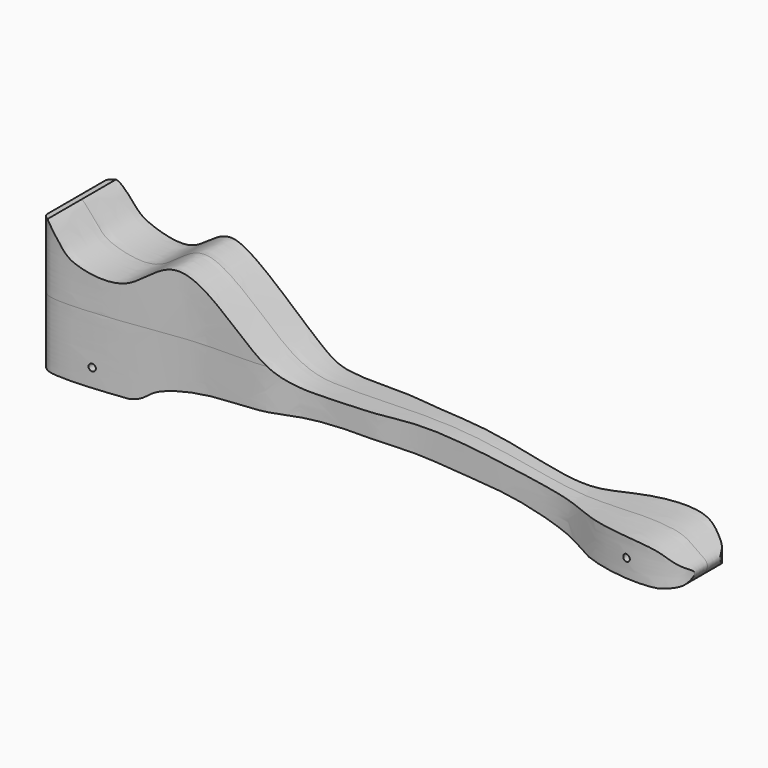
from build123d import *

# Parameters (mm, degrees)
F4_DEPTH = 22.225
F5_DEPTH = 30.48
F6_START = -92.075
F2_R     = 9.525
F6_DEPTH = 60.325
F3_R     = 1.5875
F7_DEPTH = 25.4


with BuildPart() as f4:
    # F0 (on Front) → F4 (new body, symmetric)
    with BuildSketch(Plane.XZ):
        with BuildLine():
            add(Edge.make_bspline(
                [(-146.05, -24.0236744285), (-146.1781874413, -17.8280470518), (-145.890749205, 1.0263688296), (-146.3614866441, 16.4963650099), (-145.1496370926, 37.2948765155), (-133.5770502462, 20.1843369035), (-127.1625348914, 16.37054813), (-103.9270230451, 11.1175489919), (-84.7068747987, 38.5635824615), (-46.2790919471, -5.0938781979), (-22.2494900592, -6.695037827), (8.1118552166, -5.5287336388), (32.9493743, -5.6124807868), (60.3557936175, -9.7348250899), (87.88574098, -14.9863606595), (109.5876212533, -13.305083868), (133.0428721986, -13.5923597316), (139.2292573782, -19.1965913175), (145.7936040284, -22.6796150517), (143.9002114327, -27.3697338863), (140.7838062461, -30.0613087741), (113.414032294, -33.3088613442), (85.2091646676, -28.1390545339), (61.2802262681, -21.093915132), (40.6325869974, -19.2318570074), (9.8282388616, -16.7085212666), (-21.5336982095, -15.9699011772), (-50.5037382312, -19.0712694467), (-71.0920257337, -19.1731174639), (-95.8228128828, -23.6471784521), (-100.7070241224, -32.4815341157), (-137.0243167617, -31.599430075), (-145.6827870244, -31.8379852841), (-145.9822013304, -27.3005577884), (-146.05, -24.0236744285)],
                knots=[0, 0, 0, 0, 0.0348425601, 0.0657792888, 0.0908085223, 0.1166067463, 0.1379717651, 0.17006105, 0.2047470651, 0.2536800752, 0.2891459215, 0.3275821166, 0.3632929727, 0.4006954205, 0.438088895, 0.4721154068, 0.5055233594, 0.5258909951, 0.5436012666, 0.5573396433, 0.5707624777, 0.6067943613, 0.6463934368, 0.6813121577, 0.7135325725, 0.7528683588, 0.7933106538, 0.8312033343, 0.8645176244, 0.8984029474, 0.92023775, 0.9622717211, 0.9815716798, 1, 1, 1, 1], degree=3))
        make_face()
    extrude(amount=F4_DEPTH, both=True)

    # F1 (on Top) → F5 (intersect, symmetric)
    with BuildSketch(Plane.XY):
        with BuildLine():
            add(Edge.make_bspline(
                [(-146.05, 0), (-146.05, 5.928368858), (-145.4148450886, 15.7381022897), (-143.2564333631, 18.7196645691), (-139.0258220731, 21.6562301428), (-115.2423313058, 20.3030785849), (-93.0049047437, 17.0918765114), (-73.7680272624, 14.2498623727), (-45.6976366661, 15.336510673), (-33.5007193867, 10.6863957582), (-11.0697130416, 9.6966210553), (0.9430550058, 9.8119011991), (16.6049656536, 6.8773301813), (36.0008647957, 7.0256751904), (60.7473983783, 5.9730877125), (87.1053063861, 4.8183016603), (102.7029321911, 14.261542428), (129.9465998271, 18.017979562), (141.4020352956, 12.4825821621), (144.360694237, 9.1340371986), (146.05, 3.7354184008), (146.05, 0)],
                knots=[0, 0, 0, 0, 0.0530041878, 0.0764887655, 0.103526781, 0.1671803003, 0.2317481833, 0.2912036753, 0.3600598805, 0.4094407381, 0.470871481, 0.5178170609, 0.5694831125, 0.6280553856, 0.6951569685, 0.7619591598, 0.8190398731, 0.8878942885, 0.9330665485, 0.9596149417, 1, 1, 1, 1], degree=3))
            add(Edge.make_bspline(
                [(-146.05, 0), (-146.05, -5.928368858), (-145.4148450886, -15.7381022897), (-143.2564333631, -18.7196645691), (-139.0258220731, -21.6562301428), (-115.2423313058, -20.3030785849), (-93.0049047437, -17.0918765114), (-73.7680272624, -14.2498623727), (-45.6976366661, -15.336510673), (-33.5007193867, -10.6863957582), (-11.0697130416, -9.6966210553), (0.9430550058, -9.8119011991), (16.6049656536, -6.8773301813), (36.0008647957, -7.0256751904), (60.7473983783, -5.9730877125), (87.1053063861, -4.8183016603), (102.7029321911, -14.261542428), (129.9465998271, -18.017979562), (141.4020352956, -12.4825821621), (144.360694237, -9.1340371986), (146.05, -3.7354184008), (146.05, 0)],
                knots=[0, 0, 0, 0, 0.0530041878, 0.0764887655, 0.103526781, 0.1671803003, 0.2317481833, 0.2912036753, 0.3600598805, 0.4094407381, 0.470871481, 0.5178170609, 0.5694831125, 0.6280553856, 0.6951569685, 0.7619591598, 0.8190398731, 0.8878942885, 0.9330665485, 0.9596149417, 1, 1, 1, 1], degree=3))
        make_face()
    extrude(amount=F5_DEPTH, both=True, mode=Mode.INTERSECT)

    # F2 (on Right) → F6 (cut)
    with BuildSketch(Plane.YZ.offset(F6_START)):
        Circle(F2_R)
    extrude(amount=-F6_DEPTH, mode=Mode.SUBTRACT)

    # F3 (on Front) → F7 (cut, symmetric)
    with BuildSketch(Plane.XZ):
        with Locations((-120.65, -22.225)):
            Circle(F3_R)
        with Locations((120.65, -22.225)):
            Circle(F3_R)
    extrude(amount=F7_DEPTH, both=True, mode=Mode.SUBTRACT)


solid = f4.part
